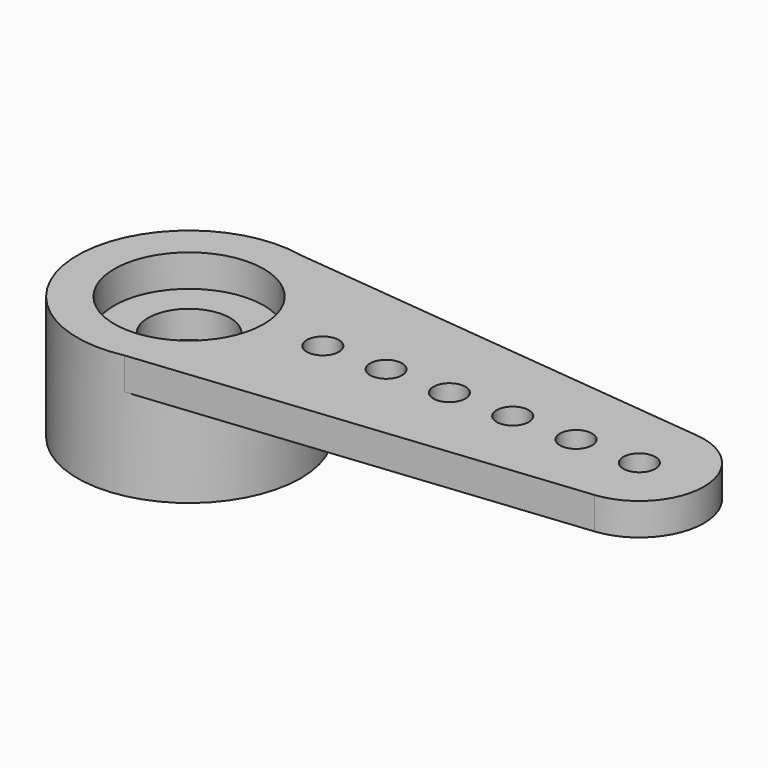
from build123d import *

# Parameters (mm, degrees)
F0_R      = 3.475
F1_DEPTH  = 3.85
F2_R      = 2.425
F3_DEPTH  = 2
F5_DEPTH  = 1
F6_R      = 2.325
F7_DEPTH  = 1
F8_R      = 1.275
F9_DEPTH  = 2.851
F10_R     = 0.5
F11_DEPTH = 3.851


with BuildPart() as f1:
    # F0 (on Top) → F1 (new body)
    with BuildSketch(Plane.XY):
        Circle(F0_R)
    extrude(amount=F1_DEPTH)

    # F2 (on face) → F3 (cut)
    with BuildSketch(Plane(origin=(0, 0, 0), x_dir=(1, 0, 0), z_dir=(0, 0, -1))):
        Circle(F2_R)
    extrude(amount=-F3_DEPTH, mode=Mode.SUBTRACT)

    # F4 (on face) → F5 (join)
    with BuildSketch(Plane.XY.offset(3.85)):
        with BuildLine():
            Line((14.22, 2), (0, 3.475))
            ThreePointArc((0, 3.475), (-3.475, 0), (0, -3.475))
            Line((0, -3.475), (14.22, -2))
            ThreePointArc((14.22, -2), (16.023276, 0), (14.22, 2))
        make_face()
    extrude(amount=-F5_DEPTH)

    # F6 (on face) → F7 (cut)
    with BuildSketch(Plane.XY.offset(3.85)):
        Circle(F6_R)
    extrude(amount=-F7_DEPTH, mode=Mode.SUBTRACT)

    # F8 (on face) → F9 (cut, through all)
    with BuildSketch(Plane.XY.offset(2.85)):
        Circle(F8_R)
    extrude(amount=-F9_DEPTH, mode=Mode.SUBTRACT)

    # F10 (on face) → F11 (cut, through all)
    with BuildSketch(Plane.XY.offset(3.85)):
        with Locations((14.012546, 0)):
            Circle(F10_R)
        with Locations((12.042546, 0)):
            Circle(F10_R)
        with Locations((10.072546, 0)):
            Circle(F10_R)
        with Locations((8.102546, 0)):
            Circle(F10_R)
        with Locations((6.132546, 0)):
            Circle(F10_R)
        with Locations((4.162546, 0)):
            Circle(F10_R)
    extrude(amount=-F11_DEPTH, mode=Mode.SUBTRACT)


solid = f1.part
